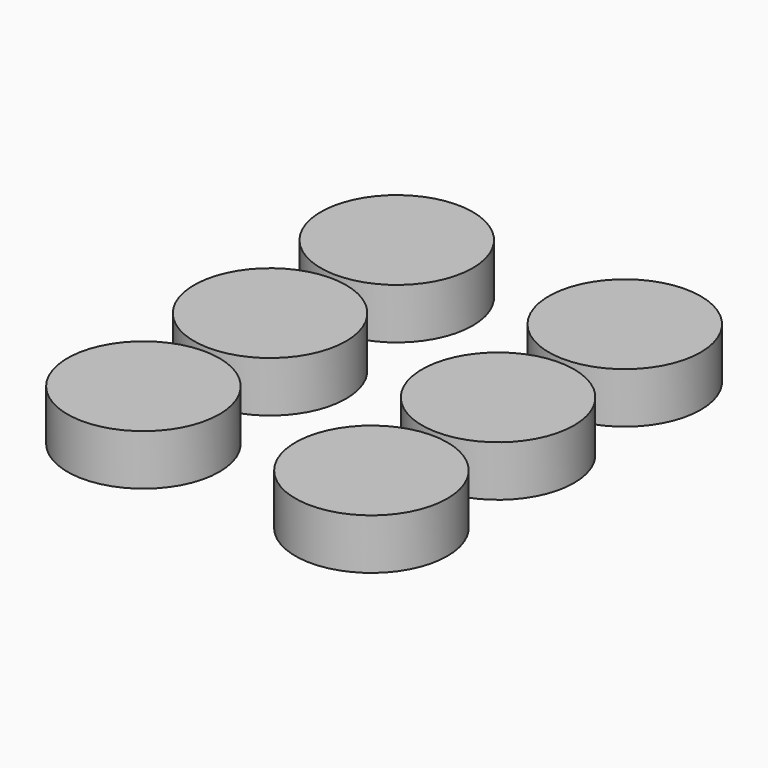
from build123d import *

# Parameters (mm, degrees)
F0_R     = 30
F1_DEPTH = 20


with BuildPart() as f1:
    # F0 (on Top) → F1 (new body)
    with BuildSketch(Plane.XY):
        with Locations((-45, 62.5)):
            Circle(F0_R)
        with Locations((-45, 0)):
            Circle(F0_R)
        with Locations((-45, -62.5)):
            Circle(F0_R)
        with Locations((45, 62.5)):
            Circle(F0_R)
        with Locations((45, 0)):
            Circle(F0_R)
        with Locations((45, -62.5)):
            Circle(F0_R)
    extrude(amount=F1_DEPTH)


solid = f1.part
